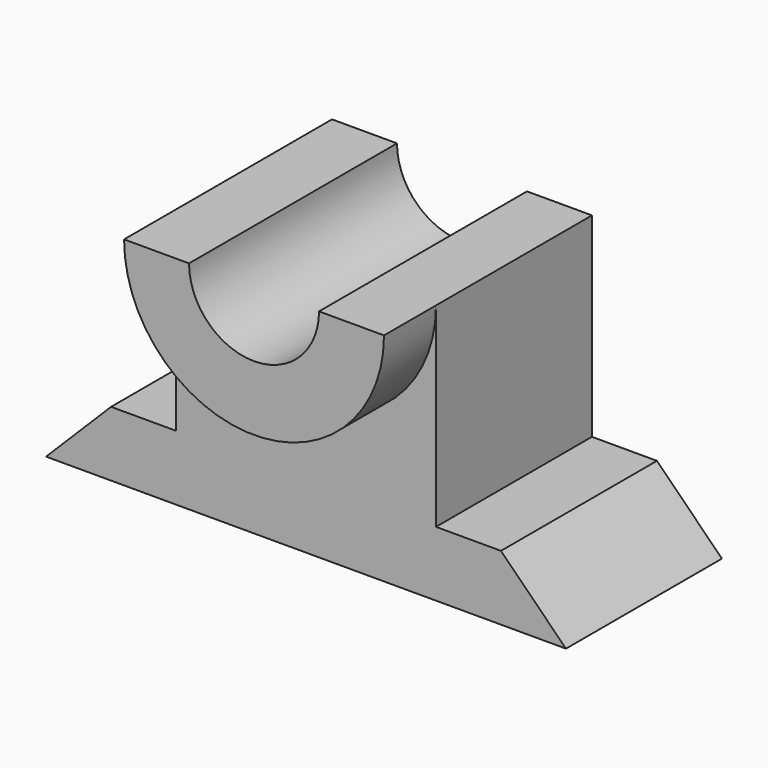
from build123d import *

# Parameters (mm, degrees)
F1_DEPTH = 30
F3_DEPTH = 10
F4_DEPTH = 30.001


with BuildPart() as f1:
    # F0 (on Front) → F1 (new body)
    with BuildSketch(Plane.XZ):
        Polygon((20, 10), (20, 40), (-20, 40), (-20, 10), (-30, 10), (-40, 0), (40, 0), (30, 10), align=None)
    extrude(amount=F1_DEPTH)

    # F2 (on face) → F3 (join)
    with BuildSketch(Plane.XZ.offset(30)):
        with BuildLine():
            ThreePointArc((10, 40), (0, 30), (-10, 40))
            Line((-10, 40), (-20, 40))
            ThreePointArc((-20, 40), (0, 20), (20, 40))
            Line((20, 40), (10, 40))
        make_face()
    extrude(amount=F3_DEPTH)

    # F4 (cut, through all): a face of the model
    f4_faces = [f1.faces().sort_by_distance(p)[0] for p in [
        (0, -30, 35.7558681842),
    ]]
    extrude(f4_faces, amount=-F4_DEPTH, mode=Mode.SUBTRACT)


solid = f1.part
